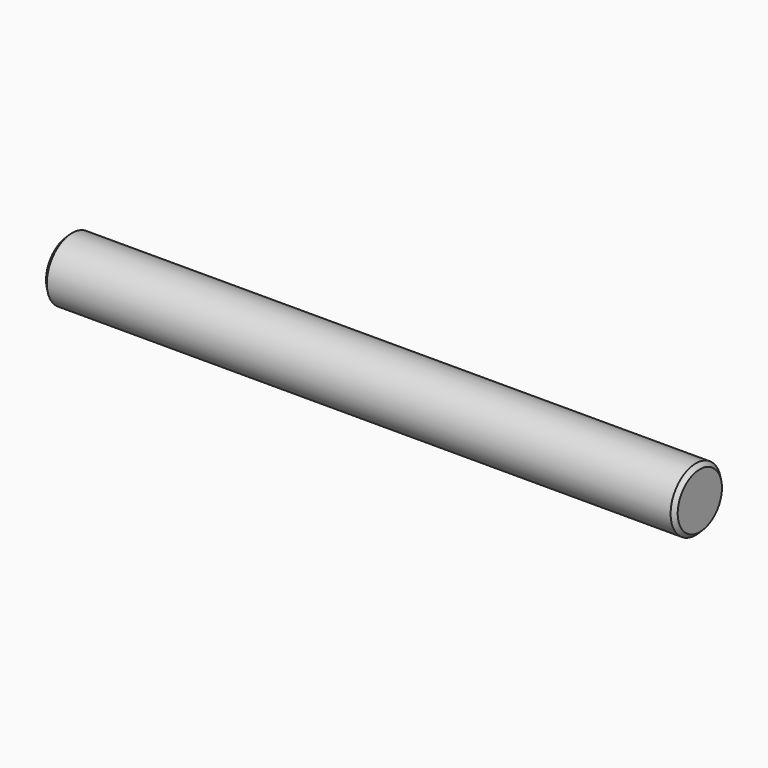
from build123d import *

# Parameters (mm, degrees)
F0_R     = 4
F1_DEPTH = 80
F2_SIZE  = 0.5


with BuildPart() as f1:
    # F0 (on Right) → F1 (new body)
    with BuildSketch(Plane.YZ):
        Circle(F0_R)
    extrude(amount=F1_DEPTH)

    # F2
    f2_edges = [f1.edges().sort_by_distance(p)[0] for p in [
        (40, 4, 0),
        (0, -4, 0),
        (80, -4, 0),
    ]]
    chamfer(f2_edges, length=F2_SIZE)


solid = f1.part
